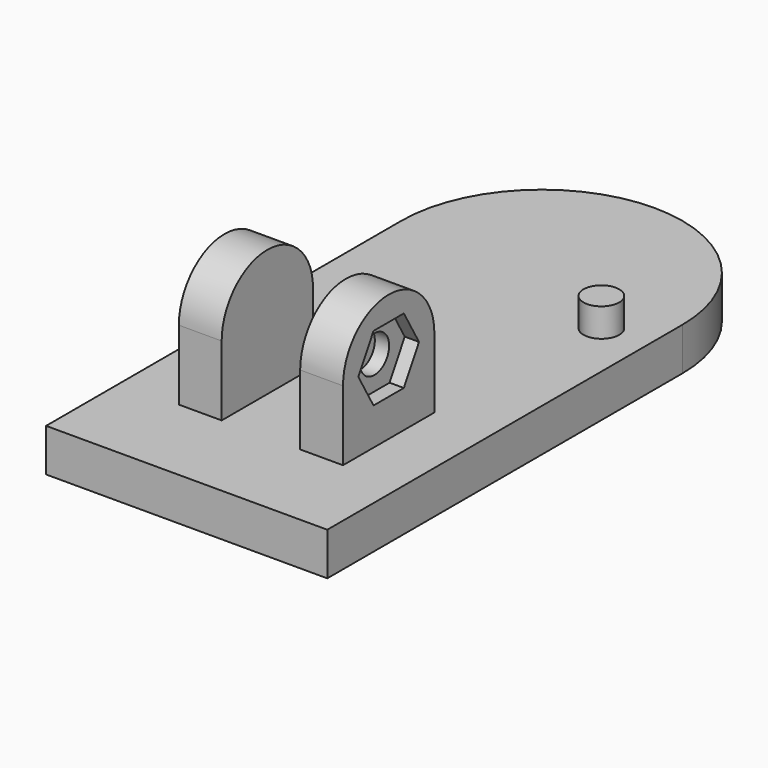
from build123d import *

# Parameters (mm, degrees)
F0_W      = 3
F0_H      = 8
F1_DEPTH  = 3
F2_DEPTH  = 4.9
F3_DEPTH  = 4.9
F5_DEPTH  = 3
F7_DEPTH  = 3
F8_DEPTH  = 25
F9_DEPTH  = 1
F11_DEPTH = 3
F12_R     = 1.8630386708
F13_DEPTH = 1
F14_R     = 1.9023250727
F15_DEPTH = 1
F16_R     = 1.25
F17_DEPTH = 2
F18_DEPTH = 1


with BuildPart() as f1:
    # F0 (on Top) → F1 (new body)
    with BuildSketch(Plane.XY):
        with BuildLine():
            Line((9.35, -30.6), (9.35, 0))
            ThreePointArc((9.35, 0), (0, -9.35), (-9.35, 0))
            Line((-9.35, 0), (-9.35, -30.6))
            Line((-9.35, -30.6), (9.35, -30.6))
        make_face()
        with Locations((-4.25, -20.6)):
            Rectangle(F0_W, F0_H, mode=Mode.SUBTRACT)
        with Locations((4.25, -20.6)):
            Rectangle(F0_W, F0_H, mode=Mode.SUBTRACT)
        with BuildLine():
            ThreePointArc((-9.35, 0), (0, -9.35), (9.35, 0))
            ThreePointArc((9.35, 0), (0, 9.35), (-9.35, 0))
        make_face()
        with Locations((4.25, -20.6)):
            Rectangle(F0_W, F0_H)
        with Locations((-4.25, -20.6)):
            Rectangle(F0_W, F0_H)
    extrude(amount=-F1_DEPTH)

    # F0 (on Top) → F2 (join)
    with BuildSketch(Plane.XY):
        with Locations((4.25, -20.6)):
            Rectangle(F0_W, F0_H)
    extrude(amount=F2_DEPTH)

    # F0 (on Top) → F3 (join)
    with BuildSketch(Plane.XY):
        with Locations((-4.25, -20.6)):
            Rectangle(F0_W, F0_H)
    extrude(amount=F3_DEPTH)

    # F4 (on face) → F5 (join)
    with BuildSketch(Plane(origin=(-5.75, 0, 0), x_dir=(0, -1, 0), z_dir=(-1, 0, 0))):
        with BuildLine():
            Line((16.6, 4.9), (24.6, 4.9))
            ThreePointArc((24.6, 4.9), (20.6, 8.9), (16.6, 4.9))
        make_face()
    extrude(amount=-F5_DEPTH)

    # F6 (on face) → F7 (join)
    with BuildSketch(Plane.YZ.offset(5.75)):
        with BuildLine():
            Line((-17.944, 4.9), (-16.6, 4.9))
            ThreePointArc((-16.6, 4.9), (-20.6, 8.9), (-24.6, 4.9))
            Line((-24.6, 4.9), (-23.256, 4.9))
            Line((-23.256, 4.9), (-21.928, 7.2001634725))
            Line((-21.928, 7.2001634725), (-19.272, 7.2001634725))
            Line((-19.272, 7.2001634725), (-17.944, 4.9))
        make_face()
        with BuildLine():
            Line((-19.311, 4.9), (-17.944, 4.9))
            Line((-17.944, 4.9), (-19.272, 7.2001634725))
            Line((-19.272, 7.2001634725), (-21.928, 7.2001634725))
            Line((-21.928, 7.2001634725), (-23.256, 4.9))
            Line((-23.256, 4.9), (-21.889, 4.9))
            ThreePointArc((-21.889, 4.9), (-20.6, 6.189), (-19.311, 4.9))
        make_face()
    extrude(amount=-F7_DEPTH)

    # F6 (on face) → F8 (cut)
    with BuildSketch(Plane.YZ.offset(5.75)):
        with BuildLine():
            Line((-21.889, 4.9), (-19.311, 4.9))
            ThreePointArc((-19.311, 4.9), (-20.6, 6.189), (-21.889, 4.9))
        make_face()
        with BuildLine():
            ThreePointArc((-21.889, 4.9), (-20.6, 3.611), (-19.311, 4.9))
            Line((-19.311, 4.9), (-21.889, 4.9))
        make_face()
    extrude(amount=-F8_DEPTH, mode=Mode.SUBTRACT)

    # F6 (on face) → F9 (cut)
    with BuildSketch(Plane.YZ.offset(5.75)):
        with BuildLine():
            Line((-19.311, 4.9), (-17.944, 4.9))
            Line((-17.944, 4.9), (-19.272, 7.2001634725))
            Line((-19.272, 7.2001634725), (-21.928, 7.2001634725))
            Line((-21.928, 7.2001634725), (-23.256, 4.9))
            Line((-23.256, 4.9), (-21.889, 4.9))
            ThreePointArc((-21.889, 4.9), (-20.6, 6.189), (-19.311, 4.9))
        make_face()
        with BuildLine():
            Line((-19.272, 2.5998365275), (-17.944, 4.9))
            Line((-17.944, 4.9), (-19.311, 4.9))
            ThreePointArc((-19.311, 4.9), (-20.6, 3.611), (-21.889, 4.9))
            Line((-21.889, 4.9), (-23.256, 4.9))
            Line((-23.256, 4.9), (-21.928, 2.5998365275))
            Line((-21.928, 2.5998365275), (-19.272, 2.5998365275))
        make_face()
    extrude(amount=-F9_DEPTH, mode=Mode.SUBTRACT)

    # F10 (on face) → F11 (join)
    with BuildSketch(Plane.XY):
        with BuildLine():
            Line((9.85, -31.1), (9.85, 0))
            ThreePointArc((9.85, 0), (0, 9.85), (-9.85, 0))
            Line((-9.85, 0), (-9.85, -31.1))
            Line((-9.85, -31.1), (9.85, -31.1))
        make_face()
        with BuildLine():
            Line((-9.35, -30.6), (-9.35, 0))
            ThreePointArc((-9.35, 0), (0, 9.35), (9.35, 0))
            Line((9.35, 0), (9.35, -30.6))
            Line((9.35, -30.6), (-9.35, -30.6))
        make_face(mode=Mode.SUBTRACT)
    extrude(amount=-F11_DEPTH)

    # F12 (on face) → F13 (join)
    with BuildSketch(Plane.YZ.offset(-2.75)):
        with Locations((-20.6, 4.9)):
            Circle(F12_R)
    extrude(amount=-F13_DEPTH)

    # F14 (on face) → F15 (join)
    with BuildSketch(Plane(origin=(2.75, 0, 0), x_dir=(0, -1, 0), z_dir=(-1, 0, 0))):
        with Locations((20.6, 4.9)):
            Circle(F14_R)
    extrude(amount=-F15_DEPTH)

    # F16 (on face) → F17 (join)
    with BuildSketch(Plane.XY):
        with Locations((6.65, -3.1)):
            Circle(F16_R)
    extrude(amount=F17_DEPTH)

    # F18 (add): a face of the model
    f18_faces = [f1.faces().sort_by_distance(p)[0] for p in [
        (-3.75, -20.6, 4.9),
    ]]
    extrude(f18_faces, amount=F18_DEPTH)


solid = f1.part
